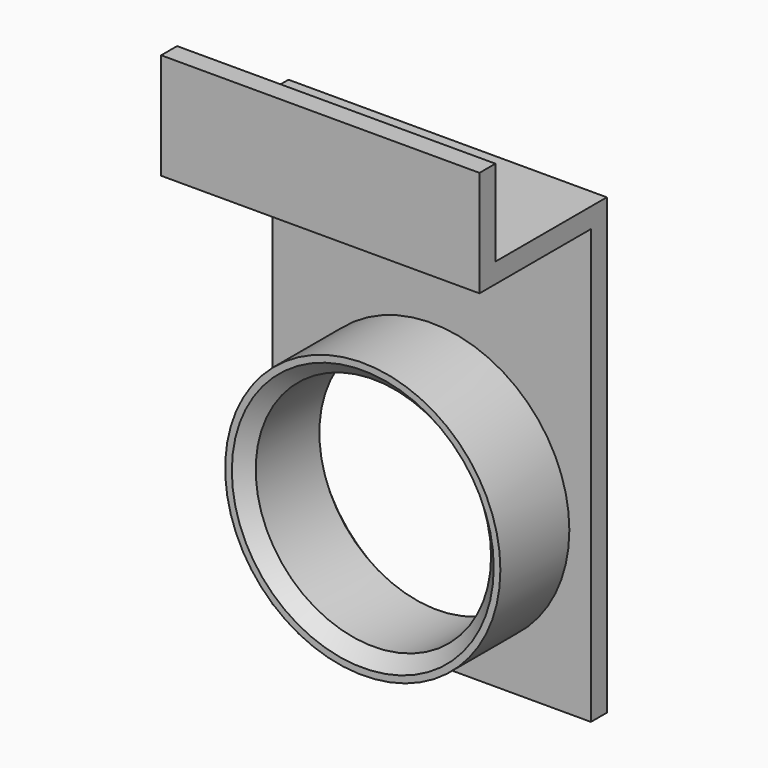
from build123d import *

# Parameters (mm, degrees)
F1_W          = 1.5
F1_H          = 6.5
F1_H_2        = 1.5
F2_DEPTH      = 12
F2_DEPTH_BACK = 12
F0_R          = 8.875
F3_DEPTH      = 25
F0_R_2        = 10.375
F4_DEPTH      = 8
F5_SIZE       = 1


with BuildPart() as f2:
    # F1 (on Right) → F2 (new body, two sides)
    with BuildSketch(Plane.YZ) as f2_sk:
        Polygon((-1.5, -12.204361), (0, -12.204361), (0, 20.509552), (0, 22.009552), (-1.5, 22.009552), (-10.5, 22.009552), (-10.5, 20.509552), (-1.5, 20.509552), align=None)
        with Locations((-11.25, 25.259552)):
            Rectangle(F1_W, F1_H)
        with Locations((-11.25, 21.259552)):
            Rectangle(F1_W, F1_H_2)
    extrude(amount=F2_DEPTH)
    extrude(f2_sk.sketch, amount=-F2_DEPTH_BACK)

    # F0 (on Front) → F3 (cut)
    with BuildSketch(Plane.XZ):
        Circle(F0_R)
    extrude(amount=F3_DEPTH, mode=Mode.SUBTRACT)

    # F0 (on Front) → F4 (join)
    with BuildSketch(Plane.XZ):
        Circle(F0_R_2)
        Circle(F0_R, mode=Mode.SUBTRACT)
    extrude(amount=F4_DEPTH)

    # F5
    f5_edges = [f2.edges().sort_by_distance(p)[0] for p in [
        (-8.875, -8, 0),
        (-8.875, 0, 0),
    ]]
    chamfer(f5_edges, length=F5_SIZE)


solid = f2.part
